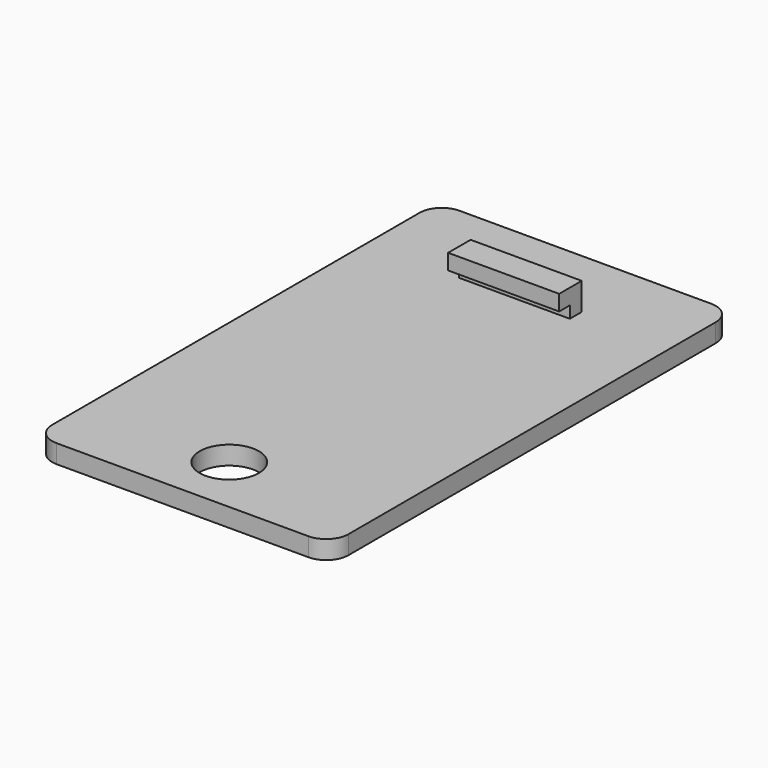
from build123d import *

# Parameters (mm, degrees)
F0_W     = 40
F0_H     = 68
F0_R     = 4
F1_DEPTH = 2.5
F2_R     = 3
F3_W     = 15
F3_H     = 3.8
F4_DEPTH = 3.7
F5_W     = 1.8
F5_H     = 1.6
F6_DEPTH = 25


with BuildPart() as f1:
    # F0 (on Top) → F1 (new body)
    with BuildSketch(Plane.XY):
        Rectangle(F0_W, F0_H)
        with Locations((-0.09511, -26)):
            Circle(F0_R, mode=Mode.SUBTRACT)
    extrude(amount=F1_DEPTH)

    # F2
    f2_edges = [f1.edges().sort_by_distance(p)[0] for p in [
        (-20, 34, 1.25),
        (20, 34, 1.25),
        (-20, -34, 1.25),
        (20, -34, 1.25),
    ]]
    fillet(f2_edges, radius=F2_R)

    # F3 (on face) → F4 (join)
    with BuildSketch(Plane.XY.offset(2.5)):
        with Locations((0, 22.1)):
            Rectangle(F3_W, F3_H)
    extrude(amount=F4_DEPTH)

    # F5 (on face) → F6 (cut)
    with BuildSketch(Plane(origin=(-7.5, 0, 0), x_dir=(0, -1, 0), z_dir=(-1, 0, 0))):
        with Locations((-21.1, 3.3)):
            Rectangle(F5_W, F5_H)
    extrude(amount=-F6_DEPTH, mode=Mode.SUBTRACT)


solid = f1.part
